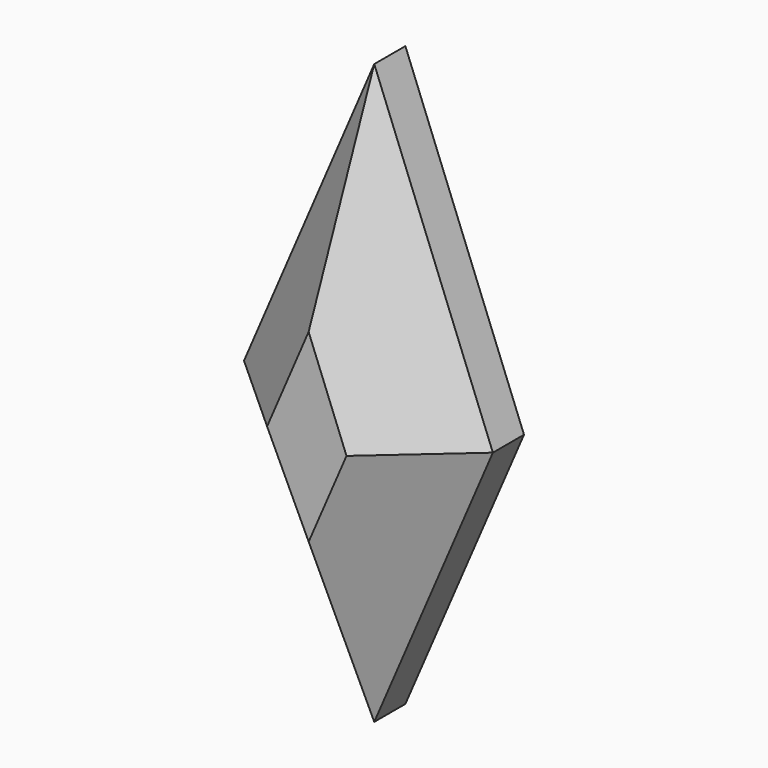
from build123d import *

# Parameters (mm, degrees)
F1_DEPTH = 25
F2_SIZE  = 10


with BuildPart() as f1:
    # F0 (on Front) → F1 (new body)
    with BuildSketch(Plane.XZ):
        Polygon((0, 39.001424), (-16.736243, 0), (0, -35.415087), (15.241938, 0), align=None)
    extrude(amount=F1_DEPTH)

    # F2
    f2_edges = [f1.edges().sort_by_distance(p)[0] for p in [
        (-8.368121, -25, 19.500712),
        (-8.368121, 0, 19.500712),
        (-8.368121, -25, -17.707543),
        (-8.368121, 0, -17.707543),
        (7.620969, 0, 19.500712),
        (7.620969, -25, 19.500712),
        (7.620969, -25, -17.707543),
        (7.620969, 0, -17.707543),
    ]]
    chamfer(f2_edges, length=F2_SIZE)


solid = f1.part
